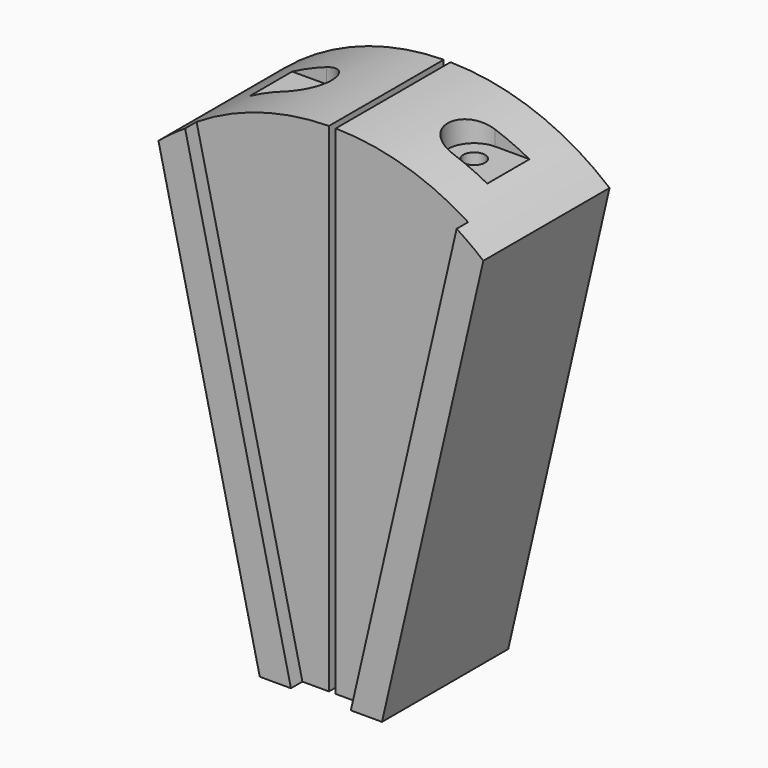
from build123d import *

# Parameters (mm, degrees)
F1_DEPTH      = 21.59
F1_DEPTH_BACK = 25.908
F3_DEPTH      = 4.318
F6_DEPTH      = 8.89
F8_D          = 6.5278
F8_DEPTH      = 16.9333333333
F8_TIP        = 1.9611489744
F10_D         = 5.1054
F10_DEPTH     = 16.5184666667
F10_TIP       = 1.5338169022


with BuildPart() as f1:
    # F0 (on Front) → F1 (new body, two sides)
    with BuildSketch(Plane.XZ) as f1_sk:
        with BuildLine():
            ThreePointArc((48.895, 58.444152616), (26.4864943885, 71.4486222051), (1.016, 76.1932263656))
            Line((1.016, 76.1932263656), (1.016, -73.6667736344))
            Line((1.016, -73.6667736344), (18.3947894287, -73.6667736344))
            Line((18.3947894287, -73.6667736344), (48.895, 58.444152616))
        make_face()
    extrude(amount=-F1_DEPTH)
    extrude(f1_sk.sketch, amount=F1_DEPTH_BACK)

    # F2 (on face) → F3 (cut)
    with BuildSketch(Plane.XZ.offset(25.908)):
        with BuildLine():
            Line((1.016, -73.6667736344), (9.010264667, -73.6667736344))
            Line((9.010264667, -73.6667736344), (40.8658697787, 64.3150113677))
            ThreePointArc((40.8658697787, 64.3150113677), (21.7668498392, 73.0249563374), (1.016, 76.1932263656))
            Line((1.016, 76.1932263656), (1.016, -73.6667736344))
        make_face()
    extrude(amount=-F3_DEPTH, mode=Mode.SUBTRACT)

    # F5 (on offset) → F6 (cut)
    with BuildSketch(Plane.XY.offset(76.2)):
        with BuildLine():
            Line((35.7505, -7.9375), (35.7505, 7.9375))
            Line((35.7505, 7.9375), (25.4, 7.9375))
            ThreePointArc((25.4, 7.9375), (17.4625, 0), (25.4, -7.9375))
            Line((25.4, -7.9375), (35.7505, -7.9375))
        make_face()
    extrude(amount=-F6_DEPTH, mode=Mode.SUBTRACT)

    # F8
    with Locations(Plane.XY.offset(67.31)):
        with Locations((25.4, 0)):
            Hole(F8_D / 2, depth=F8_DEPTH)
            with Locations((0, 0, -(F8_DEPTH + F8_TIP / 2))):  # 118° drill point
                Cone(0, F8_D / 2, F8_TIP, mode=Mode.SUBTRACT)

    # F10
    with Locations(Plane(origin=(0, 21.59, 0), x_dir=(-1, 0, 0), z_dir=(0, 1, 0))):
        with Locations((-19.05, 54.6032263656)):
            Hole(F10_D / 2, depth=F10_DEPTH)
            with Locations((0, 0, -(F10_DEPTH + F10_TIP / 2))):  # 118° drill point
                Cone(0, F10_D / 2, F10_TIP, mode=Mode.SUBTRACT)


with BuildPart() as f11_1:
    # F11: instance of F1
    add(f1.part.mirror(Plane.YZ))


solid = Compound([f1.part, f11_1.part])
